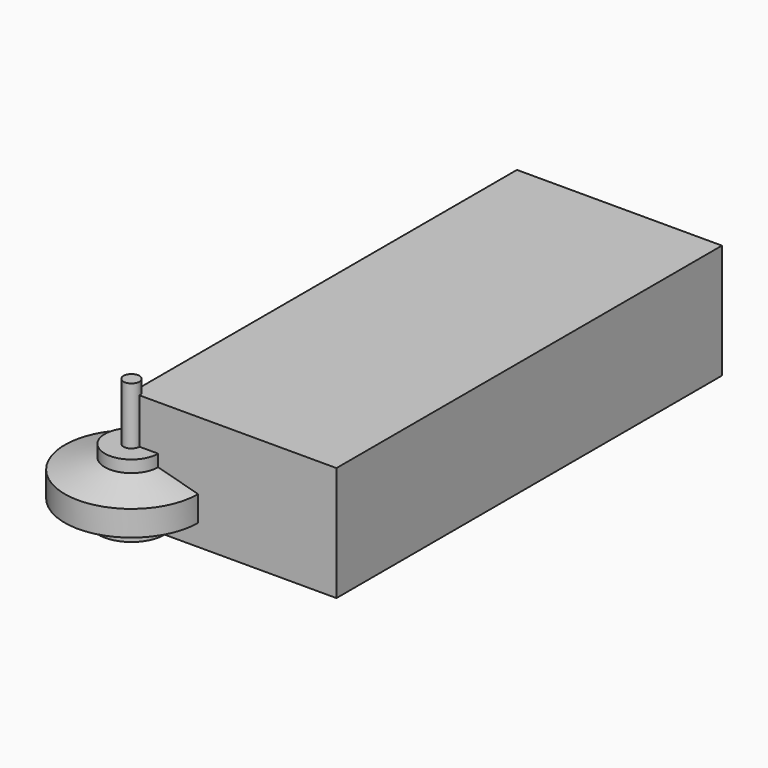
from build123d import *

# Parameters (mm, degrees)
F0_R      = 12.5
F1_DEPTH  = 8
F2_R      = 25.05
F3_DEPTH  = 13.5
F4_SIZE2  = 4
F4_SIZE   = 15
F6_D      = 2.4
F6_DEPTH  = 10
F6_TIP    = 0.7210327428
F7_R      = 10
F8_DEPTH  = 4.5
F9_R      = 3
F10_DEPTH = 21.5
F11_W     = 77
F11_H     = 181
F12_DEPTH = 43


with BuildPart() as f1:
    # F0 (on Top) → F1 (new body)
    with BuildSketch(Plane.XY):
        Circle(F0_R)
    extrude(amount=F1_DEPTH)

    # F2 (on face) → F3 (join)
    with BuildSketch(Plane.XY.offset(8)):
        Circle(F2_R)
    extrude(amount=F3_DEPTH)

    # F4
    f4_edges = [f1.edges().sort_by_distance(p)[0] for p in [
        (-25.05, 0, 21.5),
    ]]
    f4_side = f1.faces().sort_by_distance((0, 0, 21.5))[0]
    chamfer(f4_edges, length=F4_SIZE, length2=F4_SIZE2, reference=f4_side)

    # F6
    with Locations(Plane(origin=(0, 0, 0), x_dir=(1, 0, 0), z_dir=(0, 0, -1))):
        with Locations((0, 9.5), (0, -9.5), (8, 0), (-8, 0)):
            Hole(F6_D / 2, depth=F6_DEPTH)
            with Locations((0, 0, -(F6_DEPTH + F6_TIP / 2))):  # 118° drill point
                Cone(0, F6_D / 2, F6_TIP, mode=Mode.SUBTRACT)

    # F7 (on face) → F8 (join)
    with BuildSketch(Plane.XY.offset(21.5)):
        Circle(F7_R)
    extrude(amount=F8_DEPTH)

    # F9 (on face) → F10 (join)
    with BuildSketch(Plane.XY.offset(26)):
        Circle(F9_R)
    extrude(amount=F10_DEPTH)


with BuildPart() as f12:
    # F11 (on Top) → F12 (new body)
    with BuildSketch(Plane.XY):
        with Locations((38.5, 90.5)):
            Rectangle(F11_W, F11_H)
    extrude(amount=F12_DEPTH)


solid = Compound([f1.part, f12.part])
